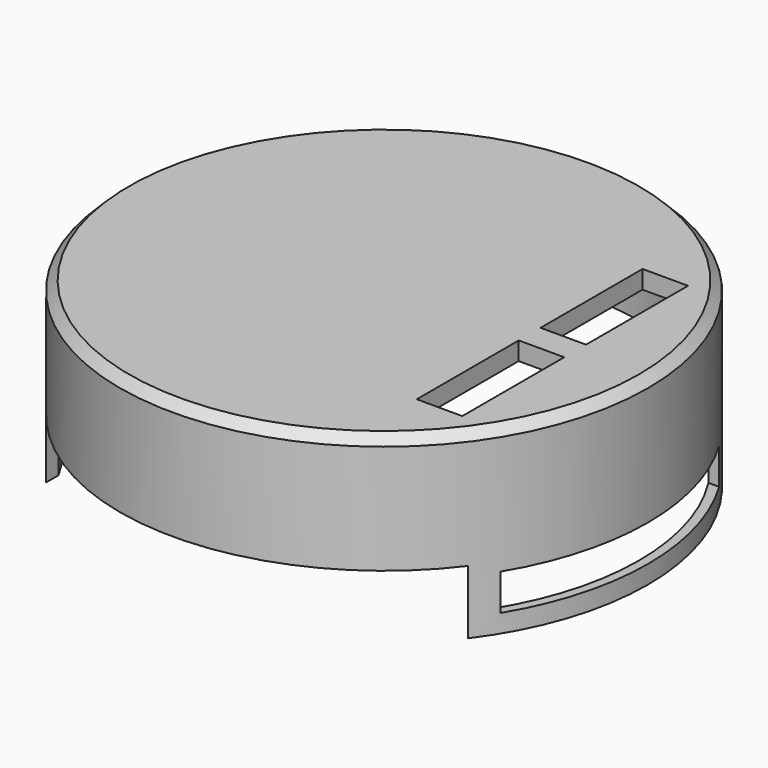
from build123d import *

# Parameters (mm, degrees)
F0_R      = 29
F4_DEPTH  = 20
F5_SIZE   = 1
F1_R      = 28
F6_DEPTH  = 18
F2_W      = 5
F2_H      = 14
F7_DEPTH  = 20.1
F3_W      = 10.5
F3_H      = 2.55
F8_DEPTH  = 42.4
F9_W      = 46.34465
F9_H      = 65.188974
F10_DEPTH = 7
F11_W     = 30
F11_H     = 4
F12_DEPTH = 45


with BuildPart() as f4:
    # F0 (on Top) → F4 (new body)
    with BuildSketch(Plane.XY):
        Circle(F0_R)
    extrude(amount=F4_DEPTH)

    # F5
    f5_edges = [f4.edges().sort_by_distance(p)[0] for p in [
        (-29, 0, 20),
    ]]
    chamfer(f5_edges, length=F5_SIZE)

    # F1 (on Top) → F6 (cut)
    with BuildSketch(Plane.XY):
        Circle(F1_R)
    extrude(amount=F6_DEPTH, mode=Mode.SUBTRACT)

    # F2 (on face) → F7 (cut)
    with BuildSketch(Plane.XY):
        with Locations((18.5, 8.5)):
            Rectangle(F2_W, F2_H)
        with Locations((18.5, -8.5)):
            Rectangle(F2_W, F2_H)
    extrude(amount=F7_DEPTH, mode=Mode.SUBTRACT)

    # F3 (on Right) → F8 (cut)
    with BuildSketch(Plane.YZ):
        with Locations((-11.250031, 14.775)):
            Rectangle(F3_W, F3_H)
    extrude(amount=-F8_DEPTH, mode=Mode.SUBTRACT)

    # F9 (on Top) → F10 (cut)
    with BuildSketch(Plane.XY):
        Rectangle(F9_W, F9_H)
    extrude(amount=F10_DEPTH, mode=Mode.SUBTRACT)

    # F11 (on Right) → F12 (cut, symmetric)
    with BuildSketch(Plane.YZ):
        with Locations((0, 4)):
            Rectangle(F11_W, F11_H)
    extrude(amount=F12_DEPTH, both=True, mode=Mode.SUBTRACT)


solid = f4.part
